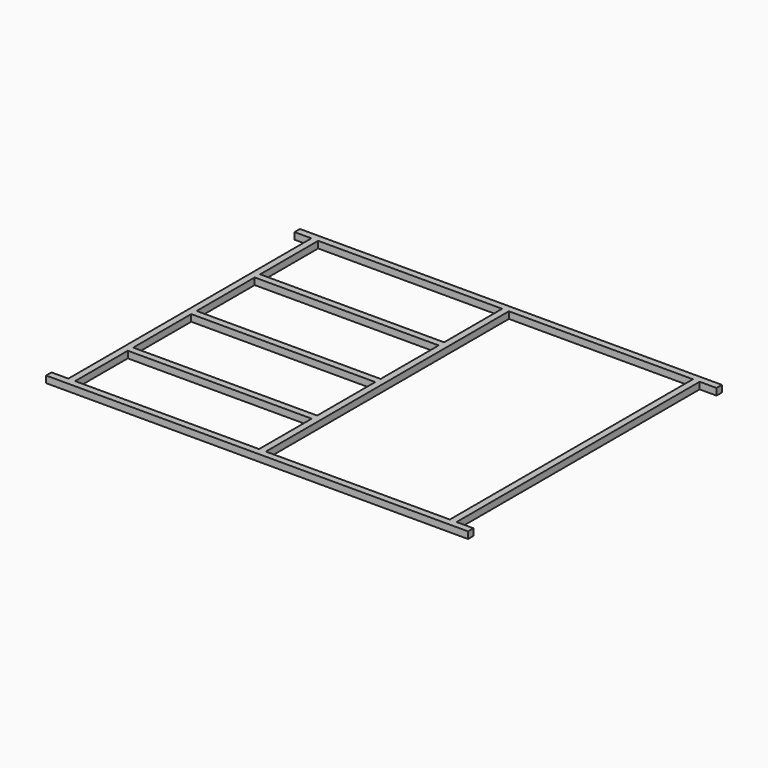
from build123d import *

# Parameters (mm, degrees)
SKETCH_W   = 1090
SKETCH_H   = 430
SKETCH_H_2 = 1800
SKETCH_H_3 = 390
PAD_DEPTH  = 40


with BuildPart() as part:
    # Sketch → Pad (new body)
    with BuildSketch(Plane.XY):
        Polygon((-1250, 940), (1250, 940), (1250, 900), (1150, 900), (1150, -900), (1250, -900), (1250, -940), (-1250, -940), (-1250, -900), (-1150, -900), (-1150, 900), (-1250, 900), align=None)
        with Locations((-565, 685)):
            Rectangle(SKETCH_W, SKETCH_H, mode=Mode.SUBTRACT)
        with Locations((565, 0)):
            Rectangle(SKETCH_W, SKETCH_H_2, mode=Mode.SUBTRACT)
        with Locations((-565, -705)):
            Rectangle(SKETCH_W, SKETCH_H_3, mode=Mode.SUBTRACT)
        with Locations((-565, 215)):
            Rectangle(SKETCH_W, SKETCH_H, mode=Mode.SUBTRACT)
        with Locations((-565, -255)):
            Rectangle(SKETCH_W, SKETCH_H, mode=Mode.SUBTRACT)
    extrude(amount=PAD_DEPTH)


solid = part.part
